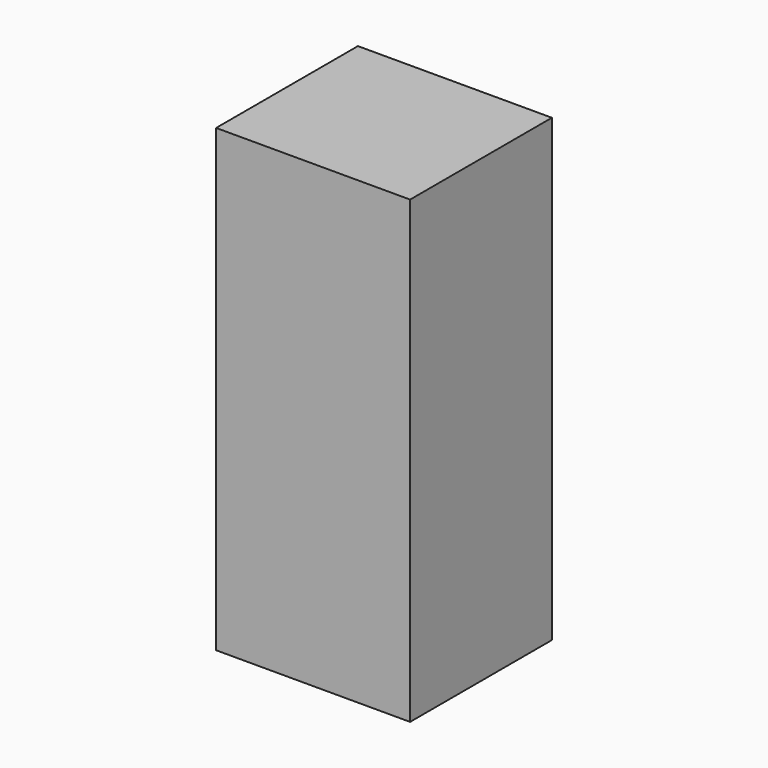
from build123d import *

# Parameters (mm, degrees)
F0_W      = 55.598326
F0_H      = 36.226526
F1_DEPTH  = 25.4
F1_FACE_W = 55.598326
F1_FACE_H = 36.226526
F2_DEPTH  = 25.4
F2_FACE_W = 55.598326
F2_FACE_H = 50.8
F3_DEPTH  = 95.573299


with BuildPart() as f1:
    # F0 (on Front) → F1 (new body)
    with BuildSketch(Plane.XZ):
        with Locations((-9.156186, -6.78467)):
            Rectangle(F0_W, F0_H)
    extrude(amount=F1_DEPTH)

    # F1_face (on face) → F2 (join)
    with BuildSketch(Plane(origin=(-9.156186, -25.4, -6.78467), x_dir=(1, 0, 0), z_dir=(0, -1, 0))):
        Rectangle(F1_FACE_W, F1_FACE_H)
    extrude(amount=F2_DEPTH)

    # F2_face (on face) → F3 (join)
    with BuildSketch(Plane(origin=(-9.156186, -25.4, 11.328593), x_dir=(1, 0, 0), z_dir=(0, 0, 1))):
        Rectangle(F2_FACE_W, F2_FACE_H)
    extrude(amount=F3_DEPTH)


solid = f1.part
